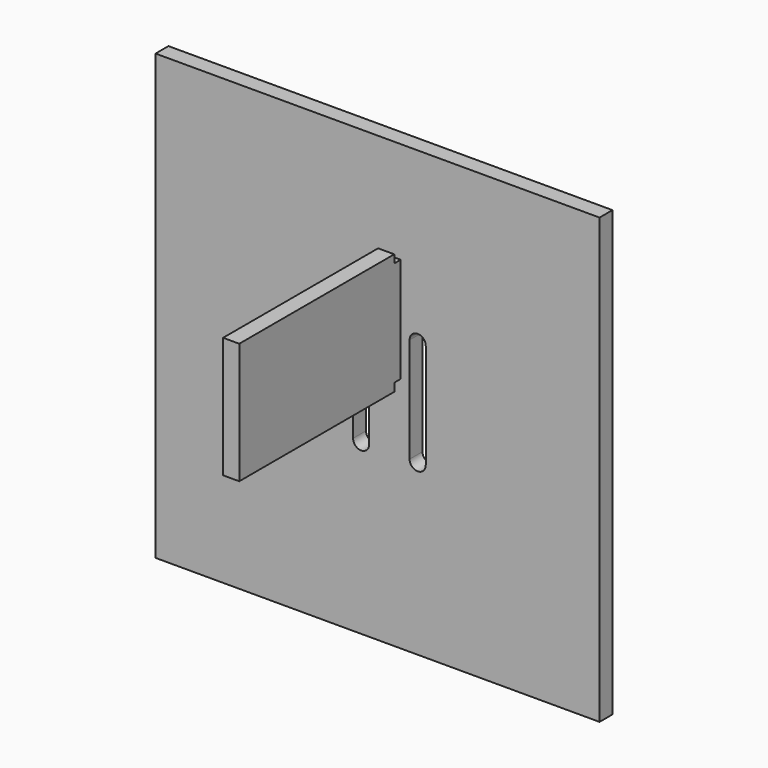
from build123d import *

# Parameters (mm, degrees)
F0_W     = 110
F0_H     = 110
F1_DEPTH = 4
F3_DEPTH = 4


with BuildPart() as f1:
    # F0 (on Front) → F1 (new body)
    with BuildSketch(Plane.XZ):
        with Locations((-2.943903, 3.178192)):
            Rectangle(F0_W, F0_H)
        with BuildLine():
            ThreePointArc((-9, 16.178192), (-7, 18.178192), (-5, 16.178192))
            Line((-5, 16.178192), (-5, -9.821808))
            ThreePointArc((-5, -9.821808), (-7, -11.821808), (-9, -9.821808))
            Line((-9, -9.821808), (-9, 16.178192))
        make_face(mode=Mode.SUBTRACT)
        with BuildLine():
            Line((5, -9.821808), (5, 16.178192))
            ThreePointArc((5, 16.178192), (7, 18.178192), (9, 16.178192))
            Line((9, 16.178192), (9, -9.821808))
            ThreePointArc((9, -9.821808), (7, -11.821808), (5, -9.821808))
        make_face(mode=Mode.SUBTRACT)
    extrude(amount=F1_DEPTH)


with BuildPart() as f3:
    # F2 (on Right) → F3 (new body)
    with BuildSketch(Plane.YZ):
        Polygon((-7.504257, 35.967189), (-55.504257, 35.967189), (-55.504257, 5.967189), (-7.504257, 5.967189), (-7.504257, 7.967189), (-5.504257, 7.967189), (-5.504257, 33.967189), (-7.504257, 33.967189), align=None)
    extrude(amount=F3_DEPTH)


solid = Compound([f1.part, f3.part])
